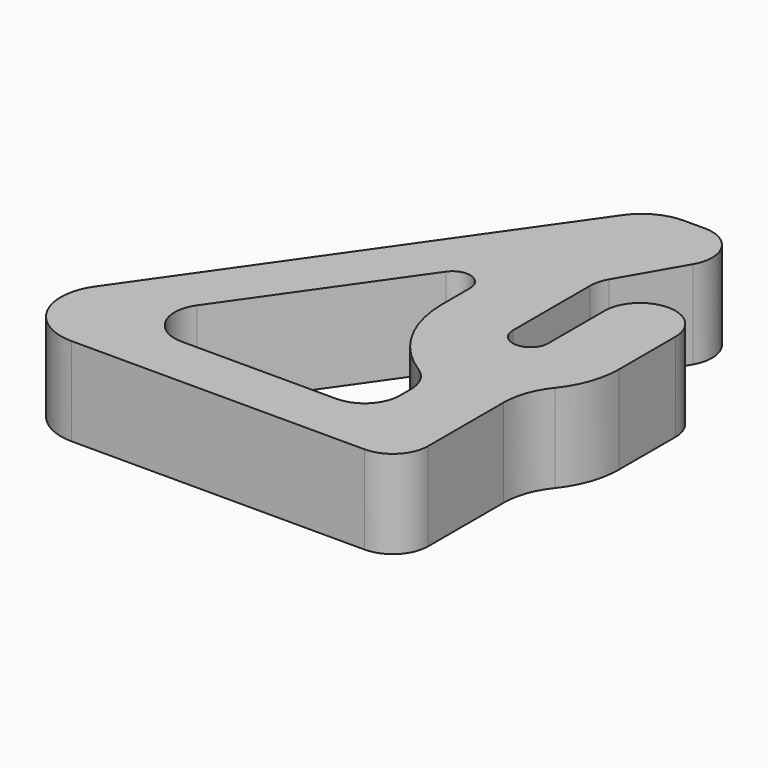
from build123d import *

# Parameters (mm, degrees)
F1_DEPTH = 5


with BuildPart() as f1:
    # F0 (on Top) → F1 (new body)
    with BuildSketch(Plane.XY):
        with BuildLine():
            Line((16, 18.928203), (14.815372, 18.928203))
            ThreePointArc((14.815372, 18.928203), (13.430126, 18.589236), (12.357916, 17.648933))
            Line((12.357916, 17.648933), (-1.595963, -2.279271))
            ThreePointArc((-1.595963, -2.279271), (-1.799539, -5.385246), (0.861494, -7))
            Line((0.861494, -7), (17.464102, -7))
            ThreePointArc((17.464102, -7), (18.878315, -6.414214), (19.464102, -5))
            Line((19.464102, -5), (19.464102, 0.343146))
            ThreePointArc((19.464102, 0.343146), (19.692865, 1.676479), (20.352991, 2.857303))
            ThreePointArc((20.352991, 2.857303), (21.178147, 4.333333), (21.464102, 6))
            Line((21.464102, 6), (21.464102, 10))
            ThreePointArc((21.464102, 10), (19.464102, 12), (17.464102, 10))
            Line((17.464102, 10), (17.464102, 6))
            ThreePointArc((17.464102, 6), (16.464102, 5), (15.464102, 6))
            Line((15.464102, 6), (15.464102, 11.464102))
            ThreePointArc((15.464102, 11.464102), (15.53225, 11.98174), (15.732051, 12.464102))
            Line((15.732051, 12.464102), (17.732051, 15.928203))
            ThreePointArc((17.732051, 15.928203), (17.732051, 17.928203), (16, 18.928203))
        make_face()
        with BuildLine():
            ThreePointArc((4.703458, -4), (2.929436, -2.923497), (3.065154, -0.852847))
            Line((3.065154, -0.852847), (9.64495, 8.544075))
            ThreePointArc((9.64495, 8.544075), (10.764807, 8.924216), (11.464102, 7.970499))
            Line((11.464102, 7.970499), (11.464102, 6))
            ThreePointArc((11.464102, 6), (12.280017, 2.847037), (14.522925, 0.485627))
            ThreePointArc((14.522925, 0.485627), (15.213051, -0.24096), (15.464102, -1.211103))
            Line((15.464102, -1.211103), (15.464102, -2))
            ThreePointArc((15.464102, -2), (14.878315, -3.414214), (13.464102, -4))
            Line((13.464102, -4), (4.703458, -4))
        make_face(mode=Mode.SUBTRACT)
    extrude(amount=F1_DEPTH)


solid = f1.part
